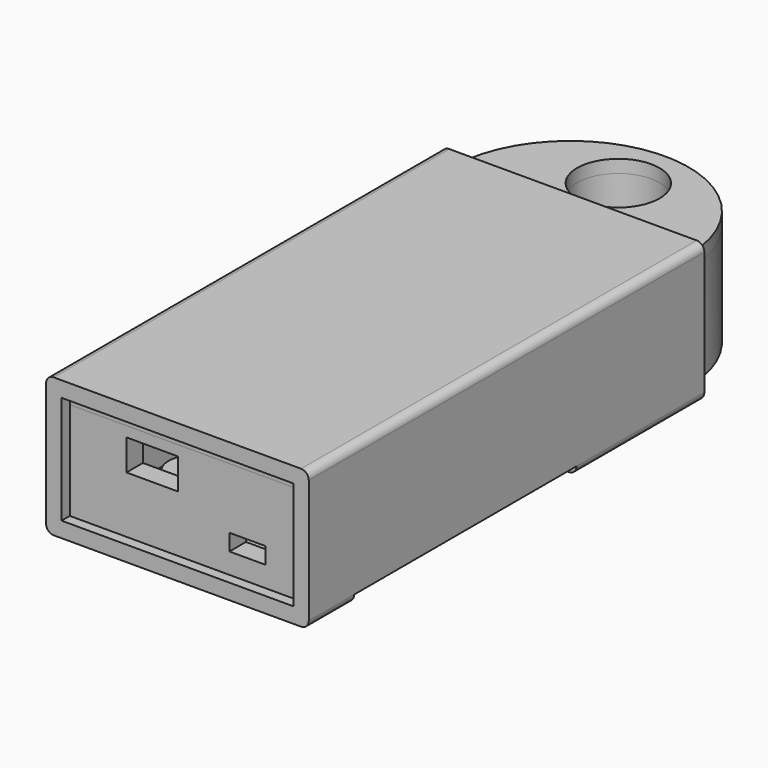
from build123d import *

# Parameters (mm, degrees)
PAD_DEPTH       = 20
SKETCH001_R     = 8
POCKET_DEPTH    = 20.001
SKETCH002_W     = 41
SKETCH002_H     = 86
POCKET001_DEPTH = 18
SKETCH003_W     = 26
SKETCH003_H     = 14.5
POCKET002_DEPTH = 5
SKETCH004_R     = 4
POCKET003_DEPTH = 5
SKETCH005_W     = 7
SKETCH005_H     = 3.2
POCKET004_DEPTH = 4.001
SKETCH006_W     = 10
SKETCH006_H     = 6
POCKET005_DEPTH = 4.001
SKETCH007_R     = 2.5
POCKET006_DEPTH = 2.001
SKETCH012_R     = 2.5
POCKET007_DEPTH = 2.001
SKETCH013_W     = 11
SKETCH013_H     = 7
POCKET008_DEPTH = 2.5
SKETCH008_R     = 5
PAD001_DEPTH    = 2
SKETCH009_R     = 2
PAD002_DEPTH    = 2
SKETCH010_R     = 3.5
PAD003_DEPTH    = 2.5
SKETCH014_R     = 8
PAD005_DEPTH    = 2.5
SKETCH015_W     = 51
SKETCH015_H     = 27
SKETCH015_W_2   = 47
SKETCH015_H_2   = 23.5
PAD006_DEPTH    = 9
SKETCH016_W     = 51
SKETCH016_H     = 27
PAD007_DEPTH    = 2
SKETCH017_W     = 2
SKETCH017_H     = 23.5
PAD008_DEPTH    = 54
SKETCH018_W     = 51
SKETCH018_H     = 27
SKETCH018_W_2   = 47
SKETCH018_H_2   = 23.5
PAD009_DEPTH    = 31
SKETCH019_W     = 51
SKETCH019_H     = 54
PAD010_DEPTH    = 2
SKETCH020_W     = 45
SKETCH020_H     = 21
POCKET009_DEPTH = 5
FILLET_R        = 1.5
FILLET001_R     = 1.5
FILLET002_R     = 1.5
FILLET003_R     = 1.5
FILLET004_R     = 1.5
FILLET005_R     = 1.5


with BuildPart() as body:
    # Sketch → Pad (new body)
    with BuildSketch(Plane.XY):
        with BuildLine():
            Line((23, 47), (23, -47))
            Line((23, -47), (-23, -47))
            Line((-23, -47), (-23, 47))
            ThreePointArc((23, 47), (0, 69.331693), (-23, 47))
        make_face()
    extrude(amount=PAD_DEPTH)

    # Sketch001 (on Face6 of Pad) → Pocket (cut, through all)
    with BuildSketch(Plane.XY.offset(20)):
        with Locations((0, 58)):
            Circle(SKETCH001_R)
    extrude(amount=-POCKET_DEPTH, mode=Mode.SUBTRACT)

    # Sketch002 (on Face5 of Pocket) → Pocket001 (cut)
    with BuildSketch(Plane.XY.offset(20)):
        Rectangle(SKETCH002_W, SKETCH002_H)
    extrude(amount=-POCKET001_DEPTH, mode=Mode.SUBTRACT)

    # Sketch003 (on Face12 of Pocket001) → Pocket002 (cut)
    with BuildSketch(Plane.XY.offset(2)):
        with Locations((0, -3.75)):
            Rectangle(SKETCH003_W, SKETCH003_H)
    extrude(amount=-POCKET002_DEPTH, mode=Mode.SUBTRACT)

    # Sketch004 (on Face16 of Pocket002) → Pocket003 (cut)
    with BuildSketch(Plane.XY.offset(2)):
        with Locations((0, -27)):
            Circle(SKETCH004_R)
    extrude(amount=-POCKET003_DEPTH, mode=Mode.SUBTRACT)

    # Sketch005 (on Face15 of Pocket003) → Pocket004 (cut, through all)
    with BuildSketch(Plane(origin=(0, -43, 0), x_dir=(-1, 0, 0), z_dir=(0, 1, 0))):
        with Locations((-12, 6.6)):
            Rectangle(SKETCH005_W, SKETCH005_H)
    extrude(amount=-POCKET004_DEPTH, mode=Mode.SUBTRACT)

    # Sketch006 (on Face19 of Pocket004) → Pocket005 (cut, through all)
    with BuildSketch(Plane(origin=(0, -43, 0), x_dir=(-1, 0, 0), z_dir=(0, 1, 0))):
        with Locations((6.5, 15)):
            Rectangle(SKETCH006_W, SKETCH006_H)
    extrude(amount=-POCKET005_DEPTH, mode=Mode.SUBTRACT)

    # Sketch007 (on Face25 of Pocket005) → Pocket006 (cut, through all)
    with BuildSketch(Plane.XY.offset(2)):
        with Locations((-13.5, -28)):
            Circle(SKETCH007_R)
    extrude(amount=-POCKET006_DEPTH, mode=Mode.SUBTRACT)

    # Sketch012 (on Face26 of Pocket006) → Pocket007 (cut, through all)
    with BuildSketch(Plane.XY.offset(2)):
        with Locations((13.5, -28)):
            Circle(SKETCH012_R)
    extrude(amount=-POCKET007_DEPTH, mode=Mode.SUBTRACT)

    # Sketch013 (on Face6 of Pocket007) → Pocket008 (cut)
    with BuildSketch(Plane(origin=(-23, 0, 0), x_dir=(0, -1, 0), z_dir=(-1, 0, 0))):
        with Locations((7.5, 10.5)):
            Rectangle(SKETCH013_W, SKETCH013_H)
    extrude(amount=-POCKET008_DEPTH, mode=Mode.SUBTRACT)


with BuildPart() as leddiffuser:
    # Sketch008 (on DatumPlane) → Pad001 (new body)
    with BuildSketch(Plane.XY.offset(2)):
        with Locations((-13.5, -28)):
            Circle(SKETCH008_R)
    extrude(amount=PAD001_DEPTH)

    # Sketch009 (on Face2 of Pad001) → Pad002 (join)
    with BuildSketch(Plane(origin=(0, 0, 2), x_dir=(1, 0, 0), z_dir=(0, 0, -1))):
        with Locations((-13.5, 28)):
            Circle(SKETCH009_R)
    extrude(amount=PAD002_DEPTH)


with BuildPart() as button:
    # Sketch010 (on DatumPlane) → Pad003 (new body)
    with BuildSketch(Plane.XY.offset(2)):
        with Locations((0, -27)):
            Circle(SKETCH010_R)
    extrude(amount=-PAD003_DEPTH)


with BuildPart() as backplate:
    # Sketch014 (on DatumPlane) → Pad005 (new body)
    with BuildSketch(Plane.XY.offset(20)):
        with BuildLine():
            Line((-23, 47), (-23, -47))
            Line((-23, -47), (23, -47))
            Line((23, -47), (23, 47))
            ThreePointArc((23, 47), (0, 69.331693), (-23, 47))
        make_face()
        with Locations((0, 58)):
            Circle(SKETCH014_R, mode=Mode.SUBTRACT)
    extrude(amount=PAD005_DEPTH)


with BuildPart() as sleeve:
    # Sketch015 (on DatumPlane) → Pad006 (new body)
    with BuildSketch(Plane.XZ.offset(47)):
        with Locations((0, 11.5)):
            Rectangle(SKETCH015_W, SKETCH015_H)
        with Locations((0, 11.25)):
            Rectangle(SKETCH015_W_2, SKETCH015_H_2, mode=Mode.SUBTRACT)
    extrude(amount=-PAD006_DEPTH)

    # Sketch016 (on DatumPlane) → Pad007 (join)
    with BuildSketch(Plane.XZ.offset(47)):
        with Locations((0, 11.5)):
            Rectangle(SKETCH016_W, SKETCH016_H)
    extrude(amount=PAD007_DEPTH)

    # Sketch017 (on Face5 of Pad007) → Pad008 (join)
    with BuildSketch(Plane(origin=(0, -38, 0), x_dir=(1, 0, 0), z_dir=(0, 1, 0))):
        with Locations((24.5, -11.25)):
            Rectangle(SKETCH017_W, SKETCH017_H)
        with Locations((-24.5, -11.25)):
            Rectangle(SKETCH017_W, SKETCH017_H)
    extrude(amount=PAD008_DEPTH)

    # Sketch018 (on Face20 of Pad008) → Pad009 (join)
    with BuildSketch(Plane(origin=(0, 16, 0), x_dir=(1, 0, 0), z_dir=(0, 1, 0))):
        with Locations((0, -11.5)):
            Rectangle(SKETCH018_W, SKETCH018_H)
        with Locations((0, -11.25)):
            Rectangle(SKETCH018_W_2, SKETCH018_H_2, mode=Mode.SUBTRACT)
    extrude(amount=PAD009_DEPTH)

    # Sketch019 (on Face13 of Pad009) → Pad010 (join)
    with BuildSketch(Plane(origin=(0, -47, 23), x_dir=(-1, 0, 0), z_dir=(0, 0, 1))):
        with Locations((0, -36)):
            Rectangle(SKETCH019_W, SKETCH019_H)
    extrude(amount=PAD010_DEPTH)

    # Sketch020 (on Face14 of Pad010) → Pocket009 (cut)
    with BuildSketch(Plane.XZ.offset(49)):
        with Locations((0, 11.5)):
            Rectangle(SKETCH020_W, SKETCH020_H)
    extrude(amount=-POCKET009_DEPTH, mode=Mode.SUBTRACT)

    # Fillet
    fillet_edges = [sleeve.edges().sort_by_distance(p)[0] for p in [
        (-25.5, 31.5, -2),
    ]]
    fillet(fillet_edges, radius=FILLET_R)

    # Fillet001
    fillet001_edges = [sleeve.edges().sort_by_distance(p)[0] for p in [
        (25.5, 31.5, -2),
    ]]
    fillet(fillet001_edges, radius=FILLET001_R)

    # Fillet002
    fillet002_edges = [sleeve.edges().sort_by_distance(p)[0] for p in [
        (-25.5, 31.5, 25),
    ]]
    fillet(fillet002_edges, radius=FILLET002_R)

    # Fillet003
    fillet003_edges = [sleeve.edges().sort_by_distance(p)[0] for p in [
        (25.5, 31.5, 25),
    ]]
    fillet(fillet003_edges, radius=FILLET003_R)

    # Fillet004
    fillet004_edges = [sleeve.edges().sort_by_distance(p)[0] for p in [
        (25.5, -42.5, -2),
    ]]
    fillet(fillet004_edges, radius=FILLET004_R)

    # Fillet005
    fillet005_edges = [sleeve.edges().sort_by_distance(p)[0] for p in [
        (-25.5, -42.5, -2),
    ]]
    fillet(fillet005_edges, radius=FILLET005_R)


solid = Compound([body.part, leddiffuser.part, button.part, backplate.part, sleeve.part])
